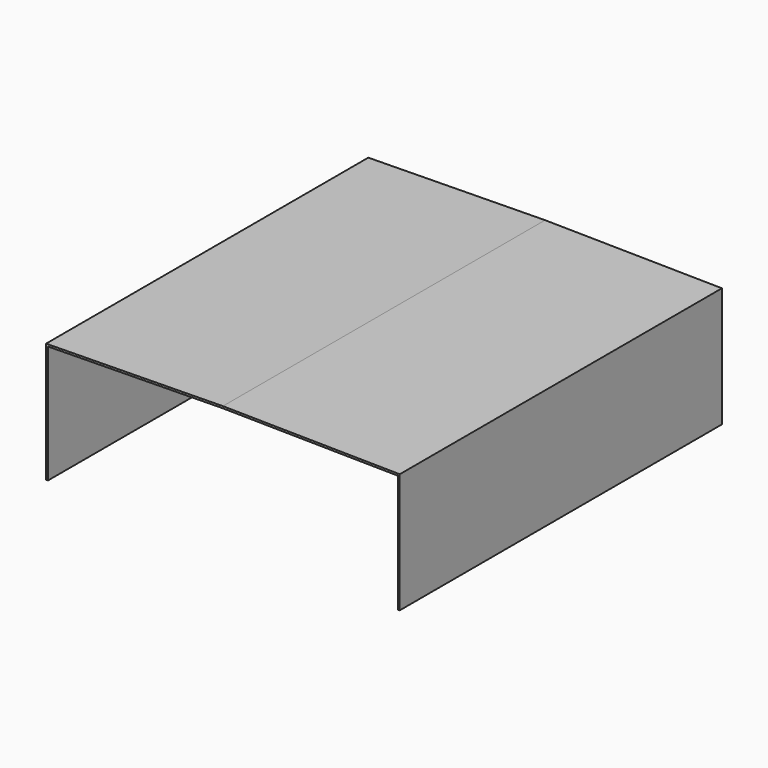
from build123d import *

# Parameters (mm, degrees)
F0_W     = 720
F0_H     = 244
F1_DEPTH = 820
F3_DEPTH = 830


with BuildPart() as f1:
    # F0 (on Front) → F1 (new body)
    with BuildSketch(Plane.XZ):
        with Locations((360, 122)):
            Rectangle(F0_W, F0_H)
        Polygon((360, 249), (0, 244), (720, 244), align=None)
    extrude(amount=-F1_DEPTH)

    # F2 (on Front) → F3 (cut)
    with BuildSketch(Plane.XZ):
        Polygon((4, 240.05517), (4, 0), (716, 0), (716, 240.05517), (360, 244.999614), align=None)
    extrude(amount=-F3_DEPTH, mode=Mode.SUBTRACT)


solid = f1.part
